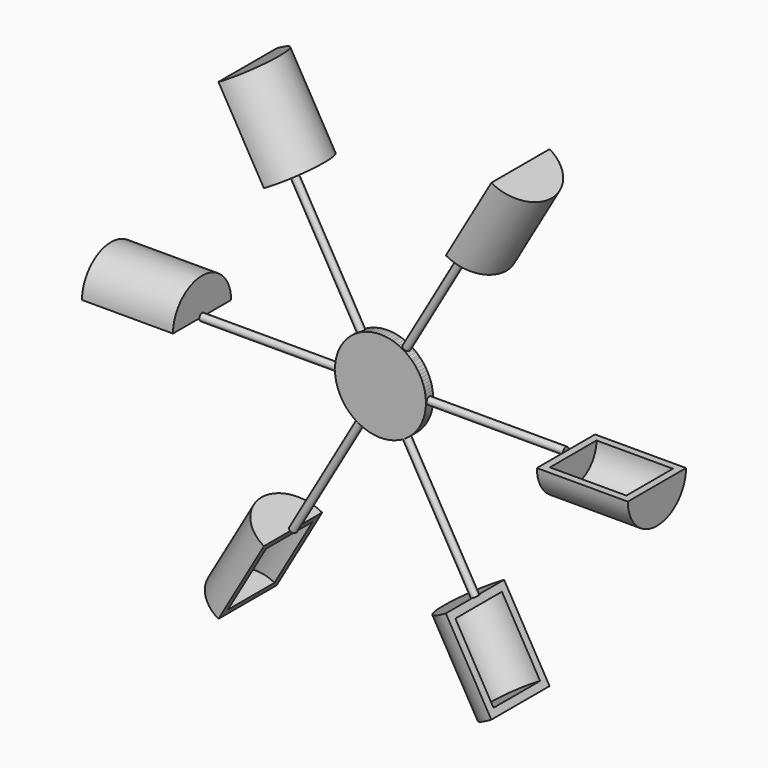
from build123d import *

# Parameters (mm, degrees)
F0_R     = 25
F1_DEPTH = 5
F2_R     = 1.962831
F3_DEPTH = 100
F4_COUNT = 6
F6_DEPTH = 50
F7_T     = -4
F8_COUNT = 6


with BuildPart() as f1:
    # F0 (on Front) → F1 (new body)
    with BuildSketch(Plane.XZ):
        Circle(F0_R)
    extrude(amount=F1_DEPTH)

    # F2 (on Right) → F3 (join)
    with BuildSketch(Plane.YZ):
        with Locations((-2.554454, 0.09607)):
            Circle(F2_R)
    extrude(amount=F3_DEPTH)


with BuildPart() as f4_1:
    # F4: instance of F1
    add(f1.part.rotate(Axis((0, 0, 0), (0, 1, 0)), 1 * 360 / F4_COUNT))


with BuildPart() as f4_2:
    # F4: instance of F1
    add(f1.part.rotate(Axis((0, 0, 0), (0, 1, 0)), 2 * 360 / F4_COUNT))


with BuildPart() as f4_3:
    # F4: instance of F1
    add(f1.part.rotate(Axis((0, 0, 0), (0, 1, 0)), 3 * 360 / F4_COUNT))


with BuildPart() as f4_4:
    # F4: instance of F1
    add(f1.part.rotate(Axis((0, 0, 0), (0, 1, 0)), 4 * 360 / F4_COUNT))


with BuildPart() as f4_5:
    # F4: instance of F1
    add(f1.part.rotate(Axis((0, 0, 0), (0, 1, 0)), 5 * 360 / F4_COUNT))


with BuildPart() as f6:
    # F5 (on face) → F6 (new body)
    with BuildSketch(Plane(origin=(-50, 0, 86.60254), x_dir=(0.866025, 0, 0.5), z_dir=(-0.5, 0, 0.866025))):
        with BuildLine():
            Line((0, -20.554198), (0, -22.554223))
            ThreePointArc((0, -22.554223), (19.90393, -2.554454), (0, 17.445315))
            Line((0, 17.445315), (0, 15.44529))
            ThreePointArc((0, 15.44529), (17.90393, -2.554454), (0, -20.554198))
        make_face()
        with BuildLine():
            Line((0, 15.44529), (0, -20.554198))
            ThreePointArc((0, -20.554198), (17.90393, -2.554454), (0, 15.44529))
        make_face()
    extrude(amount=F6_DEPTH)

    # F7
    f7_openings = [f6.faces().sort_by_distance(p)[0] for p in [
        (-62.5, -2.554454, 108.253175),
    ]]
    offset(amount=F7_T, openings=f7_openings)


with BuildPart() as f8_1:
    # F8: instance of F6
    add(f6.part.rotate(Axis((0, 0, 0), (0, 1, 0)), 1 * 360 / F8_COUNT))


with BuildPart() as f8_2:
    # F8: instance of F6
    add(f6.part.rotate(Axis((0, 0, 0), (0, 1, 0)), 2 * 360 / F8_COUNT))


with BuildPart() as f8_3:
    # F8: instance of F6
    add(f6.part.rotate(Axis((0, 0, 0), (0, 1, 0)), 3 * 360 / F8_COUNT))


with BuildPart() as f8_4:
    # F8: instance of F6
    add(f6.part.rotate(Axis((0, 0, 0), (0, 1, 0)), 4 * 360 / F8_COUNT))


with BuildPart() as f8_5:
    # F8: instance of F6
    add(f6.part.rotate(Axis((0, 0, 0), (0, 1, 0)), 5 * 360 / F8_COUNT))


solid = Compound([f1.part, f4_1.part, f4_2.part, f4_3.part, f4_4.part, f4_5.part, f6.part, f8_1.part, f8_2.part, f8_3.part, f8_4.part, f8_5.part])
